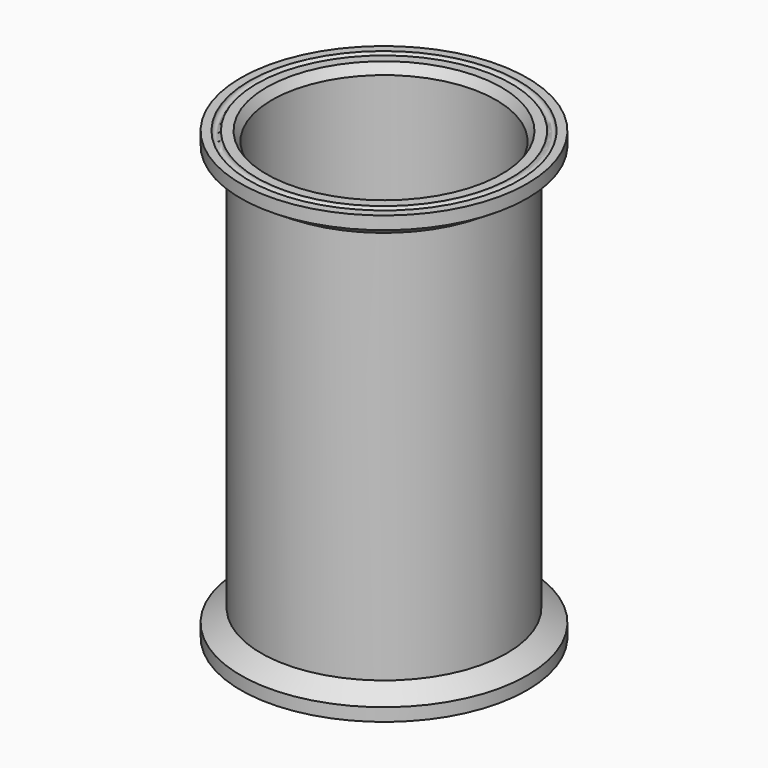
from build123d import *

# Parameters (mm, degrees)
F2_SIZE2 = 2
F2_SIZE  = 3.4641016151


with BuildPart() as f1:
    # F0 (on Front) → F1 (revolve)
    with BuildSketch(Plane.XZ):
        with BuildLine():
            Line((-47.1474705863, -2.0639507875), (-45.5, -2.0639507875))
            Line((-45.5, -2.0639507875), (-41.5, -2.0639507875))
            Line((-41.5, -2.0639507875), (-41.5, 80.4360492125))
            Line((-41.5, 80.4360492125), (-45.5, 80.4360492125))
            Line((-45.5, 80.4360492125), (-45.5, 18.9360492125))
            Line((-45.5, 18.9360492125), (-45.5, 7.5360492125))
            Line((-45.5, 7.5360492125), (-53.0143515468, 2.7360492125))
            Line((-53.0143515468, 2.7360492125), (-53.0143515468, -2.0639507875))
            Line((-53.0143515468, -2.0639507875), (-49.8812325073, -2.0639507875))
            ThreePointArc((-49.8812325073, -2.0639507875), (-48.5143515468, -0.697069827), (-47.1474705863, -2.0639507875))
        make_face()
        with BuildLine():
            Line((-45.5, 80.4360492125), (-41.5, 80.4360492125))
            Line((-41.5, 80.4360492125), (-41.5, 162.9360492125))
            Line((-41.5, 162.9360492125), (-45.5, 162.9360492125))
            Line((-45.5, 162.9360492125), (-47.1474705863, 162.9360492125))
            ThreePointArc((-47.1474705863, 162.9360492125), (-48.5143515468, 161.569168252), (-49.8812325073, 162.9360492125))
            Line((-49.8812325073, 162.9360492125), (-53.0143515468, 162.9360492125))
            Line((-53.0143515468, 162.9360492125), (-53.0143515468, 158.1360492125))
            Line((-53.0143515468, 158.1360492125), (-45.5, 153.3360492125))
            Line((-45.5, 153.3360492125), (-45.5, 141.9360492125))
            Line((-45.5, 141.9360492125), (-45.5, 80.4360492125))
        make_face()
    revolve(axis=Axis((0, 0, 19.3934533745), (0, 0, 1)))

    # F2
    f2_edges = [f1.edges().sort_by_distance(p)[0] for p in [
        (41.5, 0, 162.936049),
        (41.5, 0, -2.063951),
    ]]
    f2_side = f1.faces().sort_by_distance((41.5, 0, 80.436049))[0]
    chamfer(f2_edges, length=F2_SIZE, length2=F2_SIZE2, reference=f2_side)


solid = f1.part
